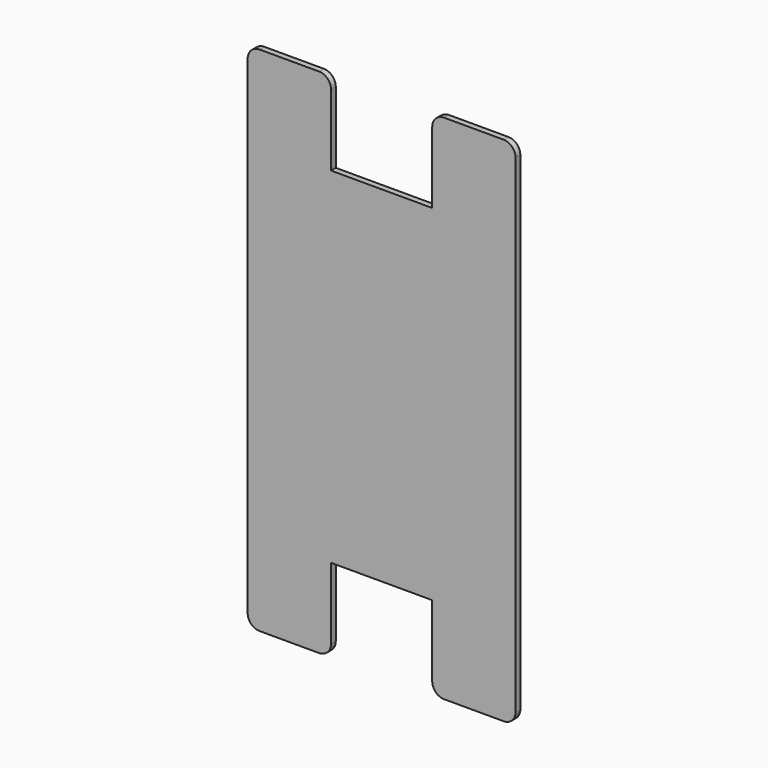
from build123d import *

# Parameters (mm, degrees)
F1_DEPTH = 1.27


with BuildPart() as f1:
    # F0 (on Front) → F1 (new body)
    with BuildSketch(Plane.XZ):
        with BuildLine():
            Line((-13.335, 54.61), (-26.035, 54.61))
            ThreePointArc((-26.035, 54.61), (-27.831051, 53.866051), (-28.575, 52.07))
            Line((-28.575, 52.07), (-28.575, -52.07))
            ThreePointArc((-28.575, -52.07), (-27.831051, -53.866051), (-26.035, -54.61))
            Line((-26.035, -54.61), (-13.335, -54.61))
            ThreePointArc((-13.335, -54.61), (-11.538949, -53.866051), (-10.795, -52.07))
            Line((-10.795, -52.07), (-10.795, -36.83))
            Line((-10.795, -36.83), (10.795, -36.83))
            Line((10.795, -36.83), (10.795, -52.07))
            ThreePointArc((10.795, -52.07), (11.538949, -53.866051), (13.335, -54.61))
            Line((13.335, -54.61), (26.035, -54.61))
            ThreePointArc((26.035, -54.61), (27.831051, -53.866051), (28.575, -52.07))
            Line((28.575, -52.07), (28.575, 52.07))
            ThreePointArc((28.575, 52.07), (27.831051, 53.866051), (26.035, 54.61))
            Line((26.035, 54.61), (13.335, 54.61))
            ThreePointArc((13.335, 54.61), (11.538949, 53.866051), (10.795, 52.07))
            Line((10.795, 52.07), (10.795, 36.83))
            Line((10.795, 36.83), (-10.795, 36.83))
            Line((-10.795, 36.83), (-10.795, 52.07))
            ThreePointArc((-10.795, 52.07), (-11.538949, 53.866051), (-13.335, 54.61))
        make_face()
    extrude(amount=-F1_DEPTH)


solid = f1.part
